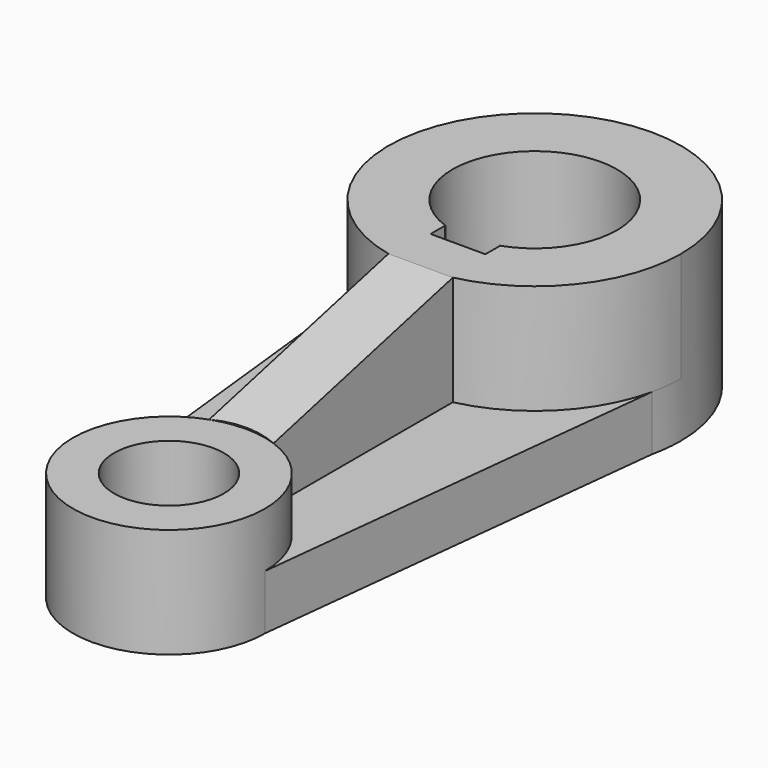
from build123d import *

# Parameters (mm, degrees)
F0_R      = 9.477436644
F1_DEPTH  = 12
F2_R      = 32
F3_DEPTH  = 24
F4_R      = 21
F5_DEPTH  = 12
F7_DEPTH  = 36.001
F8_R      = 12
F9_DEPTH  = 24.001
F11_DEPTH = 24
F13_DEPTH = 25


with BuildPart() as f1:
    # F0 (on Top) → F1 (new body)
    with BuildSketch(Plane.XY):
        with BuildLine():
            ThreePointArc((-31.2348582156, 41.2315710582), (0, 16.187405462), (31.2348582156, 41.2315710582))
            Line((31.2348582156, 41.2315710582), (32, 48.187405462))
            ThreePointArc((32, 48.187405462), (0, 80.187405462), (-32, 48.187405462))
            Line((-32, 48.187405462), (-31.2348582156, 41.2315710582))
        make_face()
        with BuildLine():
            ThreePointArc((-6, 31.2168427135), (-10.3923048454, 62.8843439187), (18, 48.187405462))
            ThreePointArc((18, 48.187405462), (14.6969384567, 37.7951006165), (6, 31.2168427135))
            Line((6, 31.2168427135), (6, 28.187405462))
            Line((6, 28.187405462), (-6, 28.187405462))
            Line((-6, 28.187405462), (-6, 31.2168427135))
        make_face(mode=Mode.SUBTRACT)
        with BuildLine():
            ThreePointArc((-21, -51.812594538), (0, -30.812594538), (21, -51.812594538))
            Line((21, -51.812594538), (31.2348582156, 41.2315710582))
            ThreePointArc((31.2348582156, 41.2315710582), (0, 16.187405462), (-31.2348582156, 41.2315710582))
            Line((-31.2348582156, 41.2315710582), (-21, -51.812594538))
        make_face()
        with BuildLine():
            ThreePointArc((-21, -51.812594538), (0, -72.812594538), (21, -51.812594538))
            ThreePointArc((21, -51.812594538), (0, -30.812594538), (-21, -51.812594538))
        make_face()
        with Locations((0, -51.812594538)):
            Circle(F0_R, mode=Mode.SUBTRACT)
        with BuildLine():
            ThreePointArc((6, 31.2168427135), (14.6969384567, 37.7951006165), (18, 48.187405462))
            ThreePointArc((18, 48.187405462), (-10.3923048454, 62.8843439187), (-6, 31.2168427135))
            ThreePointArc((-6, 31.2168427135), (0, 30.187405462), (6, 31.2168427135))
        make_face()
        with Locations((0, -51.812594538)):
            Circle(F0_R)
        with BuildLine():
            ThreePointArc((6, 31.2168427135), (0, 30.187405462), (-6, 31.2168427135))
            Line((-6, 31.2168427135), (-6, 28.187405462))
            Line((-6, 28.187405462), (6, 28.187405462))
            Line((6, 28.187405462), (6, 31.2168427135))
        make_face()
        with BuildLine():
            ThreePointArc((-32, 48.187405462), (-31.8081393899, 44.6885101291), (-31.2348582156, 41.2315710582))
            Line((-31.2348582156, 41.2315710582), (-32, 48.187405462))
        make_face()
        with BuildLine():
            Line((32, 48.187405462), (31.2348582156, 41.2315710582))
            ThreePointArc((31.2348582156, 41.2315710582), (31.8081393899, 44.6885101291), (32, 48.187405462))
        make_face()
    extrude(amount=F1_DEPTH)

    # F2 (on face) → F3 (join)
    with BuildSketch(Plane.XY.offset(12)):
        with Locations((0, 48.187405462)):
            Circle(F2_R)
    extrude(amount=F3_DEPTH)

    # F4 (on face) → F5 (join)
    with BuildSketch(Plane.XY.offset(12)):
        with Locations((0, -51.812594538)):
            Circle(F4_R)
    extrude(amount=F5_DEPTH)

    # F6 (on face) → F7 (cut, through all)
    with BuildSketch(Plane.XY.offset(36)):
        with BuildLine():
            Line((6, 31.187405462), (5.9160797831, 31.187405462))
            ThreePointArc((5.9160797831, 31.187405462), (0, 66.187405462), (-5.9160797831, 31.187405462))
            Line((-5.9160797831, 31.187405462), (-6, 31.187405462))
            Line((-6, 31.187405462), (-6, 27.187405462))
            Line((-6, 27.187405462), (6, 27.187405462))
            Line((6, 27.187405462), (6, 31.187405462))
        make_face()
    extrude(amount=-F7_DEPTH, mode=Mode.SUBTRACT)

    # F8 (on face) → F9 (cut, through all)
    with BuildSketch(Plane.XY.offset(24)):
        with Locations((0, -51.812594538)):
            Circle(F8_R)
    extrude(amount=-F9_DEPTH, mode=Mode.SUBTRACT)

    # F10 (on face) → F11 (join)
    with BuildSketch(Plane.XY.offset(12)):
        with BuildLine():
            ThreePointArc((-7.0413727647, -32.0282808126), (0, -30.812594538), (7.0413727647, -32.0282808126))
            Line((7.0413727647, -32.0282808126), (7.0413727647, 16.9717191874))
            ThreePointArc((7.0413727647, 16.9717191874), (0, 16.187405462), (-7.0413727647, 16.9717191874))
            Line((-7.0413727647, 16.9717191874), (-7.0413727647, -32.0282808126))
        make_face()
    extrude(amount=F11_DEPTH)

    # F12 (on face) → F13 (cut)
    with BuildSketch(Plane.YZ.offset(7.0413727647)):
        Polygon((-32.0282808126, 36), (-32.0282808126, 24), (16.9717191874, 36), align=None)
    extrude(amount=-F13_DEPTH, mode=Mode.SUBTRACT)


solid = f1.part
